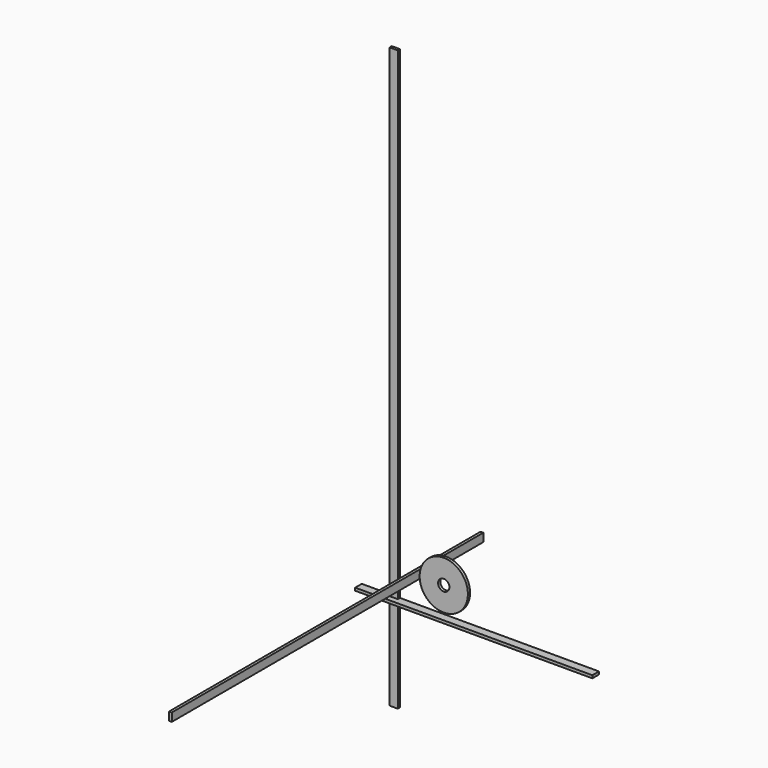
from build123d import *

# Parameters (mm, degrees)
F0_W     = 172
F0_H     = 2
F1_DEPTH = 6
F2_W     = 282.4
F2_H     = 6
F3_DEPTH = 2
F4_W     = 6
F4_H     = 420.3
F5_DEPTH = 2
F6_R     = 17.5
F6_R_2   = 4.1
F7_DEPTH = 2


with BuildPart() as f1:
    # F0 (on Front) → F1 (new body)
    with BuildSketch(Plane.XZ):
        with Locations((58.270465, 1)):
            Rectangle(F0_W, F0_H)
    extrude(amount=F1_DEPTH)


with BuildPart() as f3:
    # F2 (on Right) → F3 (new body)
    with BuildSketch(Plane.YZ):
        with Locations((-68.24992, 11.635434)):
            Rectangle(F2_W, F2_H)
    extrude(amount=F3_DEPTH)


with BuildPart() as f5:
    # F4 (on Front) → F5 (new body)
    with BuildSketch(Plane.XZ):
        with Locations((-3, 142.226514)):
            Rectangle(F4_W, F4_H)
    extrude(amount=F5_DEPTH)


with BuildPart() as f7:
    # F6 (on Front) → F7 (new body)
    with BuildSketch(Plane.XZ):
        with Locations((33.292264, 21.781916)):
            Circle(F6_R)
        with Locations((33.292264, 21.781916)):
            Circle(F6_R_2, mode=Mode.SUBTRACT)
    extrude(amount=F7_DEPTH)


solid = Compound([f1.part, f3.part, f5.part, f7.part])
